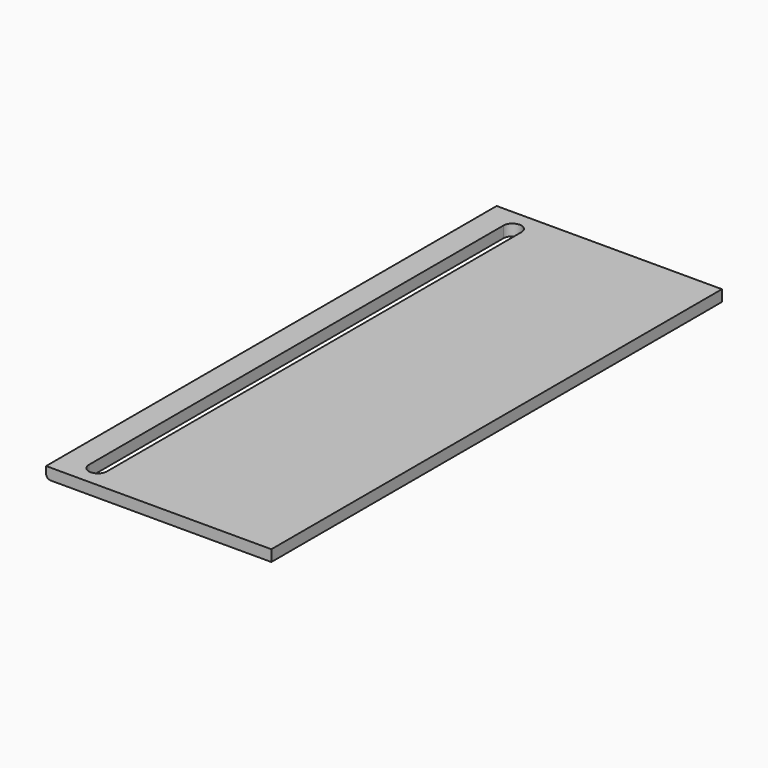
from build123d import *

# Parameters (mm, degrees)
F0_W     = 100
F0_H     = 250
F1_DEPTH = 5
F3_R     = 2
F2_W     = 8
F2_H     = 230
F4_DEPTH = 25


with BuildPart() as f1:
    # F0 (on Top) → F1 (new body)
    with BuildSketch(Plane.XY):
        Rectangle(F0_W, F0_H)
    extrude(amount=F1_DEPTH)

    # F3
    f3_edges = [f1.edges().sort_by_distance(p)[0] for p in [
        (-50, 0, 0),
    ]]
    fillet(f3_edges, radius=F3_R)

    # F2 (on face) → F4 (cut)
    with BuildSketch(Plane.XY.offset(5)):
        with Locations((-35, 0)):
            Rectangle(F2_W, F2_H)
        with BuildLine():
            ThreePointArc((-31, 115), (-35, 119), (-39, 115))
            Line((-39, 115), (-31, 115))
        make_face()
        with BuildLine():
            Line((-31, -115), (-39, -115))
            ThreePointArc((-39, -115), (-35, -119), (-31, -115))
        make_face()
    extrude(amount=-F4_DEPTH, mode=Mode.SUBTRACT)


solid = f1.part
